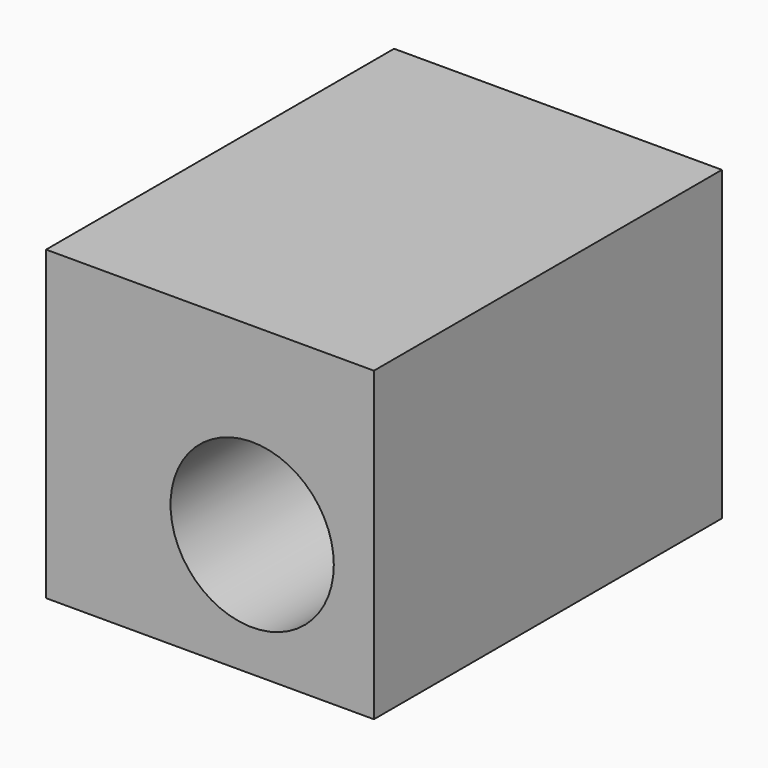
from build123d import *

# Parameters (mm, degrees)
F0_W     = 102.013146
F0_H     = 95.492559
F0_R     = 25.4
F1_DEPTH = 135.357978


with BuildPart() as f1:
    # F0 (on Front) → F1 (new body)
    with BuildSketch(Plane.XZ):
        with Locations((-13.125478, 9.50263)):
            Rectangle(F0_W, F0_H)
        Circle(F0_R, mode=Mode.SUBTRACT)
    extrude(amount=-F1_DEPTH)


solid = f1.part
